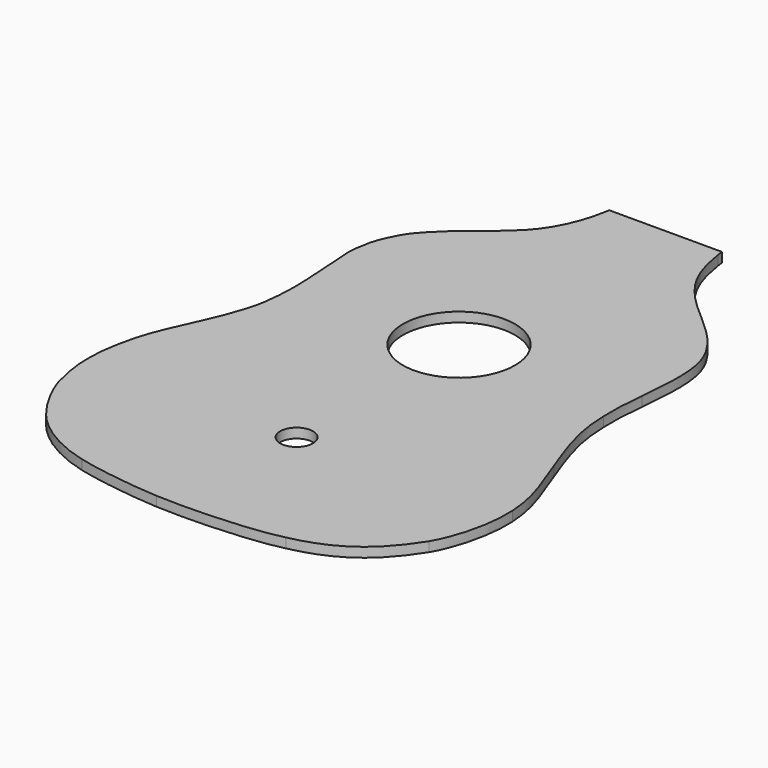
from build123d import *

# Parameters (mm, degrees)
F0_R     = 17
F0_R_2   = 58
F1_DEPTH = 10


with BuildPart() as f1:
    # F0 (on Top) → F1 (new body)
    with BuildSketch(Plane.XY):
        with BuildLine():
            add(Edge.make_bspline(
                [(-25.6339077997, -554.9584652973), (-51.3281857013, -553.7520074813), (-93.6695279871, -547.7281922836), (-112.8758760553, -542.5469908858)],
                knots=[0, 0, 0, 0, 1, 1, 1, 1], degree=3))
            add(Edge.make_bspline(
                [(101.8517638204, -546.5538520712), (75.6875139287, -553.2760310818), (18.5277424792, -557.0443555931), (-25.6339077997, -554.9584652973)],
                knots=[0, 0, 0, 0, 1, 1, 1, 1], degree=3))
            add(Edge.make_bspline(
                [(196.2248278388, -479.4811160712), (171.822081153, -518.0226613149), (144.728786774, -537.2783267828), (101.8517638204, -546.5538520712)],
                knots=[0, 0, 0, 0, 1, 1, 1, 1], degree=3))
            add(Edge.make_bspline(
                [(215.5120574316, -395.3010671859), (217.1466194612, -422.7158916841), (209.2029400354, -457.3865119018), (196.2248278388, -479.4811160712)],
                knots=[0, 0, 0, 0, 1, 1, 1, 1], degree=3))
            add(Edge.make_bspline(
                [(192.3294851646, -312.5904306206), (210.6460825929, -360.2347591492), (213.5839387817, -370.7164733528), (215.5120574316, -395.3010671859)],
                knots=[0, 0, 0, 0, 1, 1, 1, 1], degree=3))
            add(Edge.make_bspline(
                [(169.7994317014, -220.6377759274), (170.8927200615, -250.1742175661), (174.6979485759, -265.704673421), (192.3294851646, -312.5904306206)],
                knots=[0, 0, 0, 0, 1, 1, 1, 1], degree=3))
            add(Edge.make_bspline(
                [(171.8513537255, -172.9866951147), (169.5959356869, -196.170976202), (169.2566540986, -204.0498641717), (169.7994317014, -220.6377759274)],
                knots=[0, 0, 0, 0, 1, 1, 1, 1], degree=3))
            add(Edge.make_bspline(
                [(156.5171346692, -69.2568868796), (174.5323214434, -93.697017447), (177.6080524724, -114.5030664178), (171.8513537255, -172.9866951147)],
                knots=[0, 0, 0, 0, 1, 1, 1, 1], degree=3))
            add(Edge.make_bspline(
                [(123.2144497533, -35.5076734554), (137.3923515164, -47.479706869), (149.9416092694, -60.1972288193), (156.5171346692, -69.2568868796)],
                knots=[0, 0, 0, 0, 1, 1, 1, 1], degree=3))
            add(Edge.make_bspline(
                [(65.3255478686, 58.7055848673), (71.3094857176, 18.2698117865), (84.0455293395, -2.4578782981), (123.2144497533, -35.5076734554)],
                knots=[0, 0, 0, 0, 1, 1, 1, 1], degree=3))
            Line((65.3255478686, 58.7055848673), (64.565721553, 64.4665316539))
            Line((64.565721553, 64.4665316539), (-52.3039117597, 64.4665316539))
            add(Edge.make_bspline(
                [(-53.2111279718, 58.9898998943), (-52.85822859, 60.9062352781), (-52.5589473666, 62.6516212459), (-52.3039117597, 64.4665316539)],
                knots=[0, 0, 0, 0, 0.1687767432, 0.1687767432, 0.1687767432, 0.1687767432], degree=3))
            add(Edge.make_bspline(
                [(-83.9275562826, -5.3117870477), (-68.5191745861, 10.9552480289), (-57.925205972, 33.1326502537), (-53.2111279718, 58.9898998943)],
                knots=[0, 0, 0, 0, 1, 1, 1, 1], degree=3))
            add(Edge.make_bspline(
                [(-116.1044629089, -32.9178178076), (-105.0576364154, -24.5577063166), (-89.4816840216, -11.1943914798), (-83.9275562826, -5.3117870477)],
                knots=[0, 0, 0, 0, 1, 1, 1, 1], degree=3))
            add(Edge.make_bspline(
                [(-151.7732536447, -67.2104688142), (-145.4823496584, -58.8826067666), (-127.2181132715, -41.3230190468), (-116.1044629089, -32.9178178076)],
                knots=[0, 0, 0, 0, 1, 1, 1, 1], degree=3))
            add(Edge.make_bspline(
                [(-167.8786038958, -100.9023919243), (-165.7922728196, -91.5504220926), (-158.2096647421, -75.6878301404), (-151.7732536447, -67.2104688142)],
                knots=[0, 0, 0, 0, 1, 1, 1, 1], degree=3))
            add(Edge.make_bspline(
                [(-171.0060882933, -126.3918295099), (-171.6524429426, -123.6316115462), (-170.0516423645, -110.5848282174), (-167.8786038958, -100.9023919243)],
                knots=[0, 0, 0, 0, 1, 1, 1, 1], degree=3))
            add(Edge.make_bspline(
                [(-169.5117163, -149.5662211718), (-170.0493651796, -138.0408590498), (-170.7218331806, -127.612381277), (-171.0060882933, -126.3918295099)],
                knots=[0, 0, 0, 0, 1, 1, 1, 1], degree=3))
            add(Edge.make_bspline(
                [(-167.471540599, -182.8861909723), (-168.0820735931, -176.0867543832), (-169.0001494598, -161.0927678386), (-169.5117163, -149.5662211718)],
                knots=[0, 0, 0, 0, 1, 1, 1, 1], degree=3))
            add(Edge.make_bspline(
                [(-169.8114988663, -236.5880074419), (-167.2539474938, -220.4051955184), (-166.2455341108, -197.26217001), (-167.471540599, -182.8861909723)],
                knots=[0, 0, 0, 0, 1, 1, 1, 1], degree=3))
            add(Edge.make_bspline(
                [(-191.3924597661, -298.1748905383), (-179.0718659588, -271.0675724162), (-172.1596309655, -251.3416179851), (-169.8114988663, -236.5880074419)],
                knots=[0, 0, 0, 0, 1, 1, 1, 1], degree=3))
            add(Edge.make_bspline(
                [(-211.7698147273, -349.4178452311), (-208.0178282467, -335.8281697152), (-203.8558661958, -325.3620944905), (-191.3924597661, -298.1748905383)],
                knots=[0, 0, 0, 0, 1, 1, 1, 1], degree=3))
            add(Edge.make_bspline(
                [(-211.9194493318, -449.6959373576), (-221.9116183428, -415.102756195), (-221.8712504731, -388.0341277686), (-211.7698147273, -349.4178452311)],
                knots=[0, 0, 0, 0, 1, 1, 1, 1], degree=3))
            add(Edge.make_bspline(
                [(-184.4620737021, -499.4476777279), (-195.4772493714, -486.0997058769), (-206.5682443762, -466.0032882637), (-211.9194493318, -449.6959373576)],
                knots=[0, 0, 0, 0, 1, 1, 1, 1], degree=3))
            add(Edge.make_bspline(
                [(-112.8758760553, -542.5469908858), (-142.243597994, -535.1274441055), (-168.6109492663, -519.252627116), (-184.4620737021, -499.4476777279)],
                knots=[0, 0, 0, 0, 1, 1, 1, 1], degree=3))
        make_face()
        with Locations((-1.1947170427, -404.1430069365)):
            Circle(F0_R, mode=Mode.SUBTRACT)
        with Locations((0.0564528571, -195.3839299387)):
            Circle(F0_R_2, mode=Mode.SUBTRACT)
    extrude(amount=F1_DEPTH)


solid = f1.part
